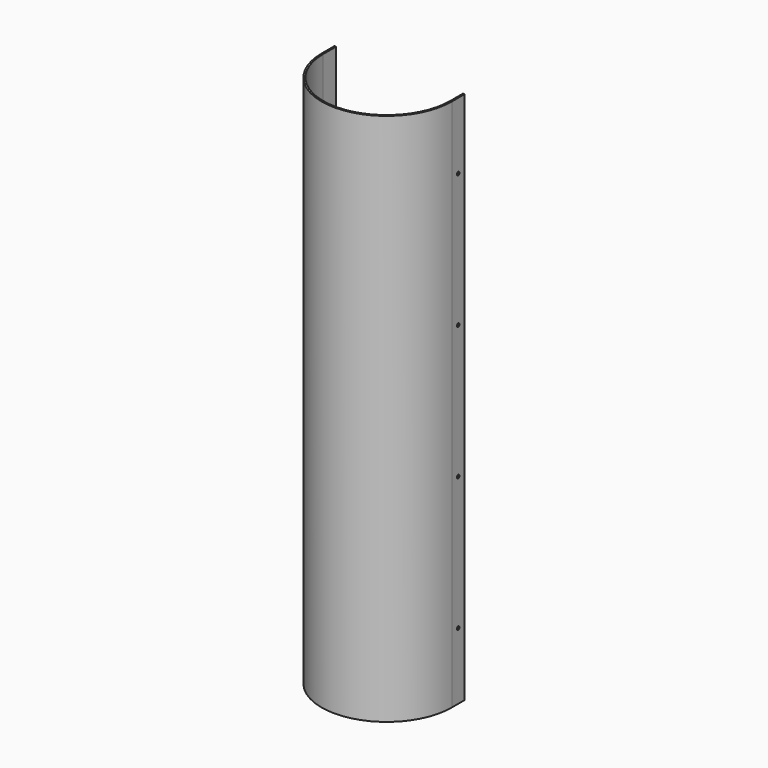
from build123d import *

# Parameters (mm, degrees)
F1_DEPTH = 2000
F2_R     = 6
F3_DEPTH = 488.001


with BuildPart() as f1:
    # F0 (on Top) → F1 (new body)
    with BuildSketch(Plane.XY):
        with BuildLine():
            ThreePointArc((238, 0), (0, -238), (-238, 0))
            Line((-238, 0), (-238, 60))
            Line((-238, 60), (-244, 60))
            Line((-244, 60), (-244, 0))
            ThreePointArc((-244, 0), (0, -244), (244, 0))
            Line((244, 0), (244, 60))
            Line((244, 60), (238, 60))
            Line((238, 60), (238, 0))
        make_face()
    extrude(amount=F1_DEPTH)

    # F2 (on face) → F3 (cut, through all)
    with BuildSketch(Plane.YZ.offset(244)):
        with Locations((30, 1750)):
            Circle(F2_R)
        with Locations((30, 1250)):
            Circle(F2_R)
        with Locations((30, 750)):
            Circle(F2_R)
        with Locations((30, 250)):
            Circle(F2_R)
    extrude(amount=-F3_DEPTH, mode=Mode.SUBTRACT)


solid = f1.part
